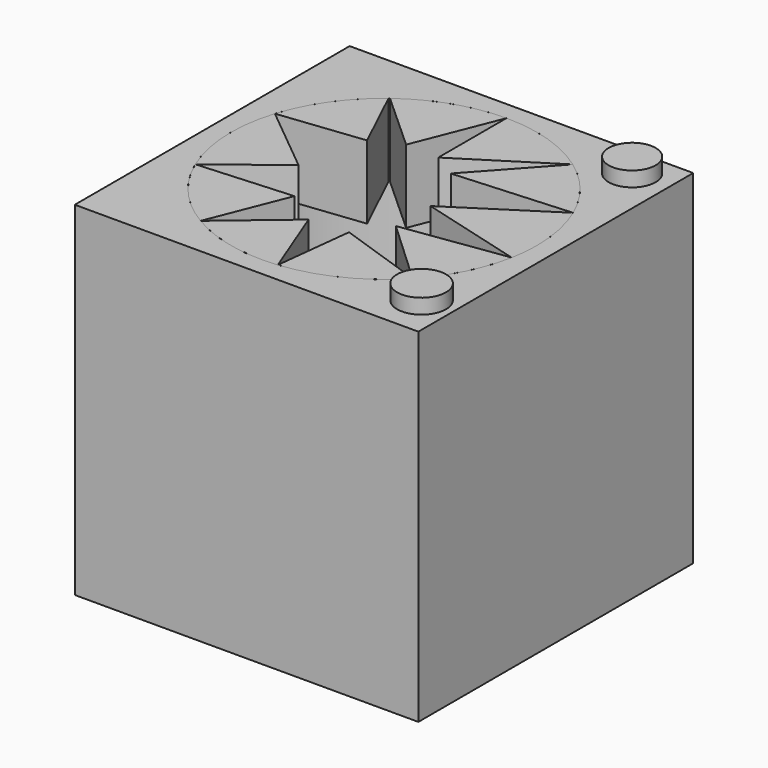
from build123d import *

# Parameters (mm, degrees)
F0_W     = 76.2
F0_H     = 76.2
F1_DEPTH = 76.2
F2_R     = 33.9541116817
F3_DEPTH = 70.612
F5_DEPTH = 16.256
F6_R     = 5.4198539704
F6_R_2   = 5.2141631228
F7_DEPTH = 3.302


with BuildPart() as f1:
    # F0 (on Top) → F1 (new body)
    with BuildSketch(Plane.XY):
        Rectangle(F0_W, F0_H)
    extrude(amount=F1_DEPTH)

    # F2 (on face) → F3 (cut)
    with BuildSketch(Plane.XY.offset(76.2)):
        Circle(F2_R)
    extrude(amount=-F3_DEPTH, mode=Mode.SUBTRACT)

    # F6 (on face) → F7 (join)
    with BuildSketch(Plane.XY.offset(76.2)):
        with Locations((31.1724040657, -28.5507440567)):
            Circle(F6_R)
        with Locations((29.9653299153, 31.3411131501)):
            Circle(F6_R_2)
    extrude(amount=F7_DEPTH)


with BuildPart() as f5:
    # F4 (on face) → F5 (new body)
    with BuildSketch(Plane.XY.offset(76.2)):
        with BuildLine():
            ThreePointArc((31.1760366044, 13.4512617153), (26.4489796747, 21.2916221612), (19.7990401795, 27.5840480724))
            Line((19.7990401795, 27.5840480724), (5.4253302515, 11.7242569104))
            Line((5.4253302515, 11.7242569104), (31.1760366044, 13.4512617153))
        make_face()
    extrude(amount=-F5_DEPTH)


with BuildPart() as f5b:
    # F4 (on face) → F5, piece 2 (new body)
    with BuildSketch(Plane.XY.offset(76.2)):
        with BuildLine():
            Line((0, 15.0486538187), (19.7990401795, 27.5840480724))
            ThreePointArc((19.7990401795, 27.5840480724), (10.3992752442, 32.3223881309), (0, 33.9541116817))
            Line((0, 33.9541116817), (0, 15.0486538187))
        make_face()
    extrude(amount=-F5_DEPTH)


with BuildPart() as f5c:
    # F4 (on face) → F5, piece 3 (new body)
    with BuildSketch(Plane.XY.offset(76.2)):
        with BuildLine():
            Line((-7.3773125187, 15.3518142179), (0, 33.9541116817))
            ThreePointArc((0, 33.9541116817), (-10.7493962212, 32.2076416549), (-20.3929765412, 27.1478950912))
            Line((-20.3929765412, 27.1478950912), (-7.3773125187, 15.3518142179))
        make_face()
    extrude(amount=-F5_DEPTH)


with BuildPart() as f5d:
    # F4 (on face) → F5, piece 4 (new body)
    with BuildSketch(Plane.XY.offset(76.2)):
        with BuildLine():
            Line((-13.6453760788, 12.3567078263), (-20.5946803059, 26.9952003732))
            ThreePointArc((-20.5946803059, 26.9952003732), (-27.7827808928, 19.5191901972), (-32.3788527166, 10.2221131302))
            Line((-32.3788527166, 10.2221131302), (-13.6453760788, 12.3567078263))
        make_face()
    extrude(amount=-F5_DEPTH)


with BuildPart() as f5e:
    # F4 (on face) → F5, piece 5 (new body)
    with BuildSketch(Plane.XY.offset(76.2)):
        with BuildLine():
            Line((-17.1205271035, -2.2973336745), (-32.3788527166, 10.2221131302))
            ThreePointArc((-32.3788527166, 10.2221131302), (-33.9165091482, -1.5975316251), (-31.2746701208, -13.2203142522))
            Line((-31.2746701208, -13.2203142522), (-17.1205271035, -2.2973336745))
        make_face()
    extrude(amount=-F5_DEPTH)


with BuildPart() as f5f:
    # F4 (on face) → F5, piece 6 (new body)
    with BuildSketch(Plane.XY.offset(76.2)):
        with BuildLine():
            Line((-10.410211049, -11.8210120127), (-31.2746701208, -13.2203142522))
            ThreePointArc((-31.2746701208, -13.2203142522), (-25.5730513598, -22.3360861441), (-17.3070828689, -29.2120965126))
            Line((-17.3070828689, -29.2120965126), (-10.410211049, -11.8210120127))
        make_face()
    extrude(amount=-F5_DEPTH)


with BuildPart() as f5g:
    # F4 (on face) → F5, piece 7 (new body)
    with BuildSketch(Plane.XY.offset(76.2)):
        with BuildLine():
            ThreePointArc((-17.3070828689, -29.2120965126), (-7.2878234024, -33.1627702423), (3.4646763369, -33.7768814127))
            Line((3.4646763369, -33.7768814127), (-3.0055609532, -17.1499848366))
            Line((-3.0055609532, -17.1499848366), (-17.3070828689, -29.2120965126))
        make_face()
    extrude(amount=-F5_DEPTH)


with BuildPart() as f5h:
    # F4 (on face) → F5, piece 8 (new body)
    with BuildSketch(Plane.XY.offset(76.2)):
        with BuildLine():
            ThreePointArc((3.4646763369, -33.7768814127), (15.1290291346, -30.3972725345), (24.8580469298, -23.12918509))
            Line((24.8580469298, -23.12918509), (5.4253302515, -16.478298232))
            Line((5.4253302515, -16.478298232), (3.4646763369, -33.7768814127))
        make_face()
    extrude(amount=-F5_DEPTH)


with BuildPart() as f5i:
    # F4 (on face) → F5, piece 9 (new body)
    with BuildSketch(Plane.XY.offset(76.2)):
        with BuildLine():
            ThreePointArc((24.8580469298, -23.12918509), (30.3015390192, -15.3198705334), (33.3633170435, -6.3064075307))
            Line((33.3633170435, -6.3064075307), (10.308181867, -9.6073327586))
            Line((10.308181867, -9.6073327586), (24.8580469298, -23.12918509))
        make_face()
    extrude(amount=-F5_DEPTH)


with BuildPart() as f5j:
    # F4 (on face) → F5, piece 10 (new body)
    with BuildSketch(Plane.XY.offset(76.2)):
        with BuildLine():
            ThreePointArc((33.9541116817, 0), (33.2523407353, 6.8675713114), (31.1760366044, 13.4512617153))
            Line((31.1760366044, 13.4512617153), (10.308181867, 0))
            Line((10.308181867, 0), (33.3633170435, -6.3064075307))
            ThreePointArc((33.3633170435, -6.3064075307), (33.8060903763, -3.1670101929), (33.9541116817, 0))
        make_face()
    extrude(amount=-F5_DEPTH)


solid = Compound([f1.part, f5.part, f5b.part, f5c.part, f5d.part, f5e.part, f5f.part, f5g.part, f5h.part, f5i.part, f5j.part])
